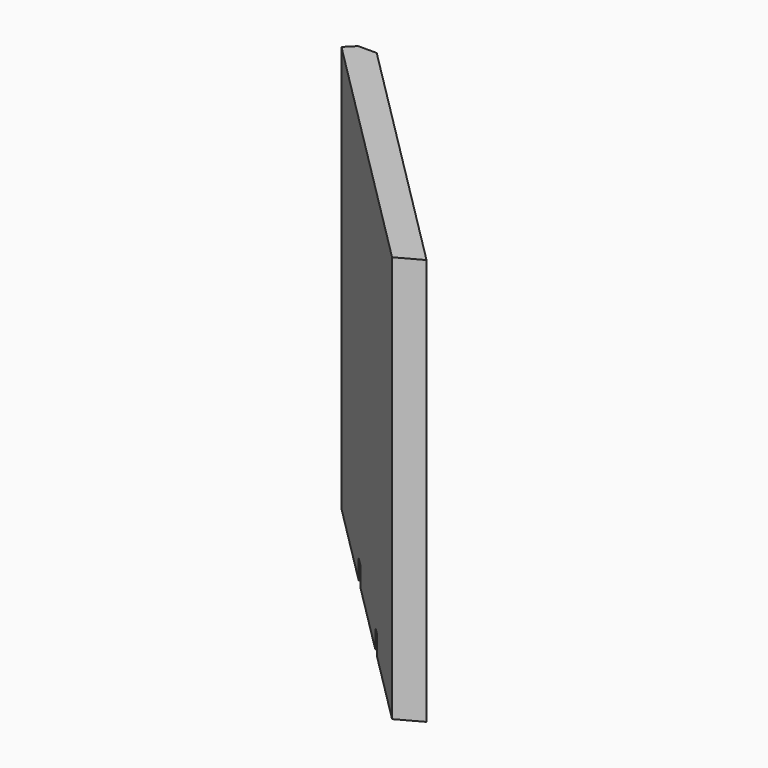
from build123d import *

# Parameters (mm, degrees)
F1_DEPTH = 374.65
F2_DEPTH = 19.05


with BuildPart() as f1:
    # F0 (on Top) → F1 (new body)
    with BuildSketch(Plane.XY):
        Polygon((-261.927949, 254), (-279.888462, 254), (-288.868718, 245.019744), (-205.493584, 161.64461), (-187.533072, 179.605122), align=None)
        Polygon((-178.552816, 170.624866), (-187.533072, 179.605122), (-205.493584, 161.64461), (-196.513328, 152.664354), align=None)
        Polygon((-106.710767, 98.782817), (-178.552816, 170.624866), (-196.513328, 152.664354), (-124.671279, 80.822305), align=None)
        Polygon((-97.73051, 89.802561), (-106.710767, 98.782817), (-124.671279, 80.822305), (-115.691023, 71.842049), align=None)
        Polygon((-20.627949, 12.7), (-97.73051, 89.802561), (-115.691023, 71.842049), (-43.848974, 0), align=None)
    extrude(amount=F1_DEPTH)

    # F0 (on Top) → F2 (join)
    with BuildSketch(Plane.XY):
        Polygon((-20.627949, 12.7), (-97.73051, 89.802561), (-115.691023, 71.842049), (-43.848974, 0), align=None)
        Polygon((-106.710767, 98.782817), (-178.552816, 170.624866), (-196.513328, 152.664354), (-124.671279, 80.822305), align=None)
        Polygon((-261.927949, 254), (-279.888462, 254), (-288.868718, 245.019744), (-205.493584, 161.64461), (-187.533072, 179.605122), align=None)
    extrude(amount=-F2_DEPTH)


solid = f1.part
